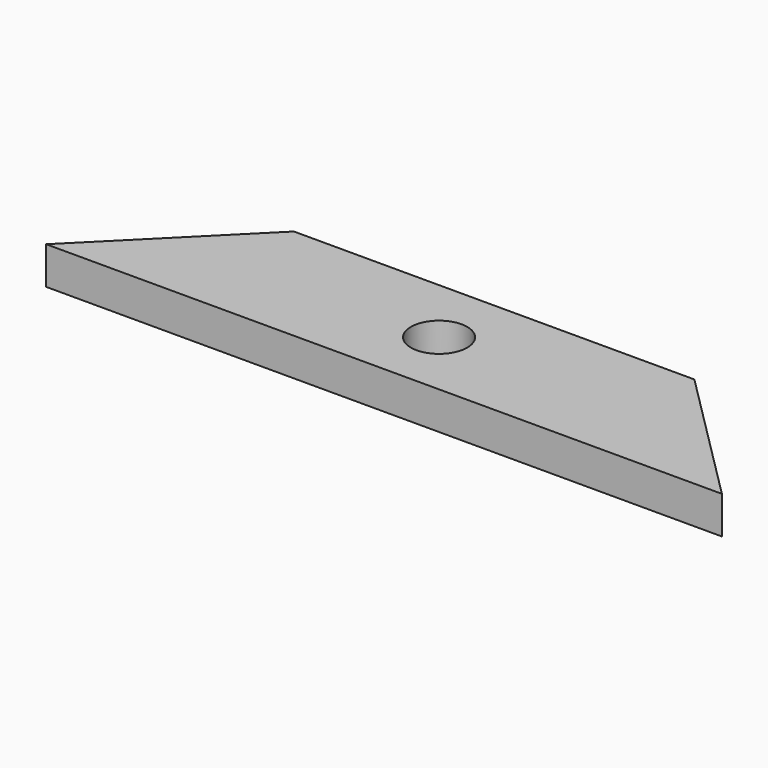
from build123d import *

# Parameters (mm, degrees)
F1_DEPTH = 38.1
F2_R     = 28.575
F3_DEPTH = 38.101


with BuildPart() as f1:
    # F0 (on Top) → F1 (new body)
    with BuildSketch(Plane.XY):
        Polygon((342.9, -69.85), (203.2, 69.85), (-203.2, 69.85), (-342.9, -69.85), align=None)
    extrude(amount=F1_DEPTH)

    # F2 (on face) → F3 (cut, through all)
    with BuildSketch(Plane.XY.offset(38.1)):
        Circle(F2_R)
    extrude(amount=-F3_DEPTH, mode=Mode.SUBTRACT)


solid = f1.part
